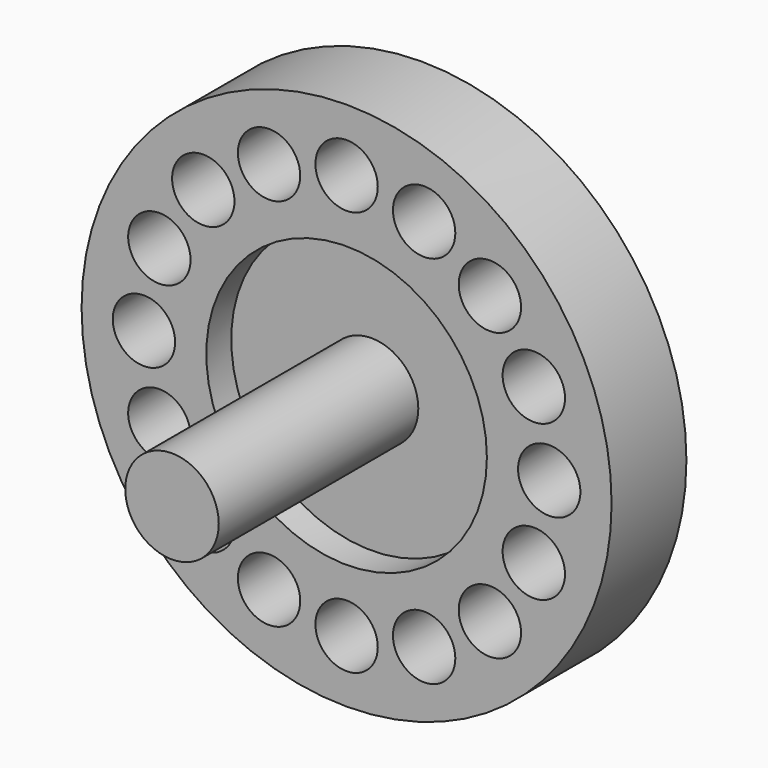
from build123d import *

# Parameters (mm, degrees)
F0_R     = 8.5
F0_R_2   = 4.5
F1_DEPTH = 3
F2_R     = 1
F3_DEPTH = 5
F4_R     = 4.5
F5_DEPTH = 2
F6_R     = 1.5
F7_DEPTH = 8


with BuildPart() as f1:
    # F0 (on Front) → F1 (new body)
    with BuildSketch(Plane.XZ):
        Circle(F0_R)
        Circle(F0_R_2, mode=Mode.SUBTRACT)
    extrude(amount=F1_DEPTH)

    # F2 (on face) → F3 (cut)
    with BuildSketch(Plane.XZ.offset(3)):
        with Locations((0, 6.5)):
            Circle(F2_R)
        with Locations((2.487442, 6.005217)):
            Circle(F2_R)
        with Locations((4.596194, 4.596194)):
            Circle(F2_R)
        with Locations((6.005217, 2.487442)):
            Circle(F2_R)
        with Locations((6.5, 0)):
            Circle(F2_R)
        with Locations((6.005217, -2.487442)):
            Circle(F2_R)
        with Locations((4.596194, -4.596194)):
            Circle(F2_R)
        with Locations((2.487442, -6.005217)):
            Circle(F2_R)
        with Locations((0, -6.5)):
            Circle(F2_R)
        with Locations((-2.487442, -6.005217)):
            Circle(F2_R)
        with Locations((-4.596194, -4.596194)):
            Circle(F2_R)
        with Locations((-6.005217, -2.487442)):
            Circle(F2_R)
        with Locations((-6.5, 0)):
            Circle(F2_R)
        with Locations((-6.005217, 2.487442)):
            Circle(F2_R)
        with Locations((-4.596194, 4.596194)):
            Circle(F2_R)
        with Locations((-2.487442, 6.005217)):
            Circle(F2_R)
    extrude(amount=-F3_DEPTH, mode=Mode.SUBTRACT)

    # F4 (on Front) → F5 (join)
    with BuildSketch(Plane.XZ):
        Circle(F4_R)
    extrude(amount=F5_DEPTH)

    # F6 (on face) → F7 (join)
    with BuildSketch(Plane.XZ.offset(2)):
        Circle(F6_R)
    extrude(amount=F7_DEPTH)


solid = f1.part
